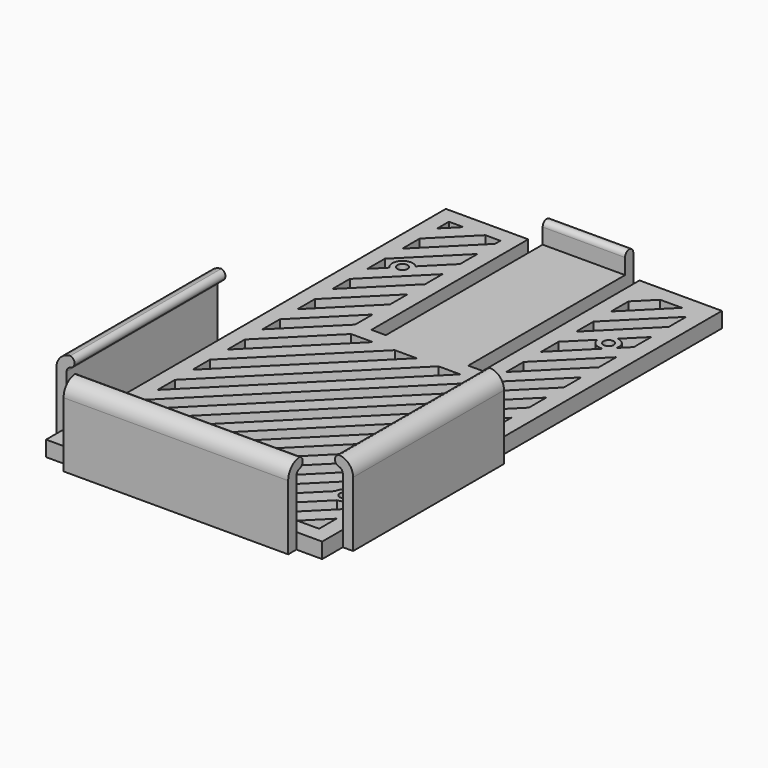
from build123d import *

# Parameters (mm, degrees)
F0_R     = 1.5875
F1_DEPTH = 4.7625
F3_DEPTH = 58.1406
F5_DEPTH = 69.215
F7_DEPTH = 25.4
F9_DEPTH = 4.7625


with BuildPart() as f1:
    # F0 (on Top) → F1 (new body)
    with BuildSketch(Plane.XY):
        Polygon((-17.145, 87.89836), (-42.545, 87.89836), (-42.545, 0), (-45.72, 0), (-45.72, -58.15164), (-42.545, -58.15164), (-42.545, -66.08914), (-34.6075, -66.08914), (-34.6075, -69.26414), (34.6075, -69.26414), (34.6075, -66.08914), (42.545, -66.08914), (42.545, -58.15164), (45.72, -58.15164), (45.72, 0), (42.545, 0), (42.545, 87.89836), (17.145, 87.89836), (17.145, 27.487862), (12.7, 27.487862), (12.7, 91.07336), (-12.7, 91.07336), (-12.7, 27.487862), (-17.145, 27.487862), align=None)
        with Locations((-31.75, -43.86414)):
            Circle(F0_R, mode=Mode.SUBTRACT)
        with Locations((31.75, -43.86414)):
            Circle(F0_R, mode=Mode.SUBTRACT)
        with Locations((-31.75, 57.73586)):
            Circle(F0_R, mode=Mode.SUBTRACT)
        with Locations((31.75, 57.73586)):
            Circle(F0_R, mode=Mode.SUBTRACT)
    extrude(amount=F1_DEPTH)

    # F2 (on face) → F3 (join)
    with BuildSketch(Plane.XZ.offset(58.15164)):
        with BuildLine():
            Line((-45.72, 20.0025), (-45.72, 4.7625))
            Line((-45.72, 4.7625), (-42.545, 4.7625))
            Line((-42.545, 4.7625), (-42.545, 20.0025))
            ThreePointArc((-42.545, 20.0025), (-42.225108, 20.927946), (-41.402, 21.458299))
            ThreePointArc((-41.402, 21.458299), (-40.126284, 23.045799), (-41.402, 24.633299))
            ThreePointArc((-41.402, 24.633299), (-44.485221, 23.179692), (-45.72, 20.0025))
        make_face()
        with BuildLine():
            Line((42.545, 20.0025), (42.545, 4.7625))
            Line((42.545, 4.7625), (45.72, 4.7625))
            Line((45.72, 4.7625), (45.72, 20.0025))
            ThreePointArc((45.72, 20.0025), (44.485221, 23.179692), (41.402, 24.633299))
            ThreePointArc((41.402, 24.633299), (40.126284, 23.045799), (41.402, 21.458299))
            ThreePointArc((41.402, 21.458299), (42.225108, 20.927946), (42.545, 20.0025))
        make_face()
    extrude(amount=-F3_DEPTH)

    # F4 (on face) → F5 (join)
    with BuildSketch(Plane.YZ.offset(34.6075)):
        with BuildLine():
            Line((-69.26414, 20.0025), (-69.26414, 4.7625))
            Line((-69.26414, 4.7625), (-66.08914, 4.7625))
            Line((-66.08914, 4.7625), (-66.08914, 20.0025))
            ThreePointArc((-66.08914, 20.0025), (-65.769247, 20.927946), (-64.94614, 21.458299))
            ThreePointArc((-64.94614, 21.458299), (-63.670424, 23.045799), (-64.94614, 24.633299))
            ThreePointArc((-64.94614, 24.633299), (-68.029361, 23.179692), (-69.26414, 20.0025))
        make_face()
    extrude(amount=-F5_DEPTH)

    # F6 (on face) → F7 (join)
    with BuildSketch(Plane.YZ.offset(12.7)):
        with BuildLine():
            Line((87.89836, 4.7625), (91.07336, 4.7625))
            Line((91.07336, 4.7625), (91.07336, 9.5377))
            ThreePointArc((91.07336, 9.5377), (89.48586, 11.1252), (87.89836, 9.5377))
            Line((87.89836, 9.5377), (87.89836, 4.7625))
        make_face()
    extrude(amount=-F7_DEPTH)

    # F8 (on face) → F9 (cut)
    with BuildSketch(Plane.XY.offset(4.7625)):
        Polygon((-33.281147, 83.13586), (-37.7825, 83.13586), (-37.7825, 78.634507), align=None)
        Polygon((-21.9075, 81.039123), (-21.9075, 83.13586), (-26.545955, 83.13586), (-37.7825, 71.899315), (-37.7825, 65.164123), align=None)
        Polygon((-12.869341, 22.725362), (-19.604533, 22.725362), (-37.7825, 4.547394), (-37.7825, -2.187798), align=None)
        Polygon((34.070774, 83.13586), (27.335582, 83.13586), (21.9075, 77.707778), (21.9075, 70.972586), align=None)
        Polygon((37.7825, 73.377202), (37.7825, 80.112394), (21.9075, 64.237394), (21.9075, 57.502202), align=None)
        Polygon((31.047308, -61.32664), (37.7825, -61.32664), (37.7825, -54.591448), align=None)
        with BuildLine():
            Line((-37.7825, -49.334142), (-37.7825, -56.069335))
            Line((-37.7825, -56.069335), (37.7825, 19.495665))
            Line((37.7825, 19.495665), (37.7825, 26.230858))
            Line((37.7825, 26.230858), (-29.803871, -41.355513))
            ThreePointArc((-29.803871, -41.355513), (-29.504936, -46.109204), (-34.258626, -45.810269))
            Line((-34.258626, -45.810269), (-37.7825, -49.334142))
        make_face()
        with BuildLine():
            ThreePointArc((32.535156, 54.659474), (29.918155, 55.142606), (28.588111, 57.447621))
            Line((28.588111, 57.447621), (21.9075, 50.76701))
            Line((21.9075, 50.76701), (21.9075, 44.031818))
            Line((21.9075, 44.031818), (32.535156, 54.659474))
        make_face()
        with BuildLine():
            ThreePointArc((-33.990248, 55.485991), (-33.995064, 59.980924), (-29.50013, 59.976109))
            Line((-29.50013, 59.976109), (-21.9075, 67.568739))
            Line((-21.9075, 67.568739), (-21.9075, 74.303931))
            Line((-21.9075, 74.303931), (-37.7825, 58.428931))
            Line((-37.7825, 58.428931), (-37.7825, 51.693739))
            Line((-37.7825, 51.693739), (-33.990248, 55.485991))
        make_face()
        with BuildLine():
            Line((17.576924, -61.32664), (24.312116, -61.32664))
            Line((24.312116, -61.32664), (37.7825, -47.856255))
            Line((37.7825, -47.856255), (37.7825, -41.121063))
            Line((37.7825, -41.121063), (34.92286, -43.980704))
            ThreePointArc((34.92286, -43.980704), (33.995064, -46.109204), (31.866564, -47.036999))
            Line((31.866564, -47.036999), (17.576924, -61.32664))
        make_face()
        with BuildLine():
            Line((4.10654, -61.32664), (10.841732, -61.32664))
            Line((10.841732, -61.32664), (28.587678, -43.580694))
            ThreePointArc((28.587678, -43.580694), (29.504936, -41.619076), (31.466554, -40.701817))
            Line((31.466554, -40.701817), (37.7825, -34.385871))
            Line((37.7825, -34.385871), (37.7825, -27.650679))
            Line((37.7825, -27.650679), (4.10654, -61.32664))
        make_face()
        Polygon((-9.363845, -61.32664), (-2.628653, -61.32664), (37.7825, -20.915487), (37.7825, -14.180295), align=None)
        Polygon((-22.834229, -61.32664), (-16.099037, -61.32664), (37.7825, -7.445103), (37.7825, -0.709911), align=None)
        Polygon((-36.304613, -61.32664), (-29.569421, -61.32664), (37.7825, 6.025281), (37.7825, 12.760473), align=None)
        Polygon((-37.7825, -35.863758), (-37.7825, -42.59895), (37.7825, 32.96605), (37.7825, 39.701242), (20.80662, 22.725362), align=None)
        Polygon((-37.7825, -22.393374), (-37.7825, -29.128566), (14.071428, 22.725362), (7.336236, 22.725362), align=None)
        Polygon((-37.7825, -8.92299), (-37.7825, -15.658182), (0.601044, 22.725362), (-6.134148, 22.725362), align=None)
        Polygon((-37.7825, 18.017778), (-37.7825, 11.282586), (-21.9075, 27.157586), (-21.9075, 33.892778), align=None)
        Polygon((-37.7825, 31.488163), (-37.7825, 24.752971), (-21.9075, 40.627971), (-21.9075, 47.363163), align=None)
        Polygon((-37.7825, 44.958547), (-37.7825, 38.223355), (-21.9075, 54.098355), (-21.9075, 60.833547), align=None)
        Polygon((37.7825, 46.436434), (37.7825, 53.171626), (21.9075, 37.296626), (21.9075, 30.561434), align=None)
        with BuildLine():
            Line((37.7825, 59.906818), (37.7825, 66.64201))
            Line((37.7825, 66.64201), (32.038239, 60.89775))
            ThreePointArc((32.038239, 60.89775), (34.343254, 59.567706), (34.826387, 56.950705))
            Line((34.826387, 56.950705), (37.7825, 59.906818))
        make_face()
    extrude(amount=-F9_DEPTH, mode=Mode.SUBTRACT)


solid = f1.part
